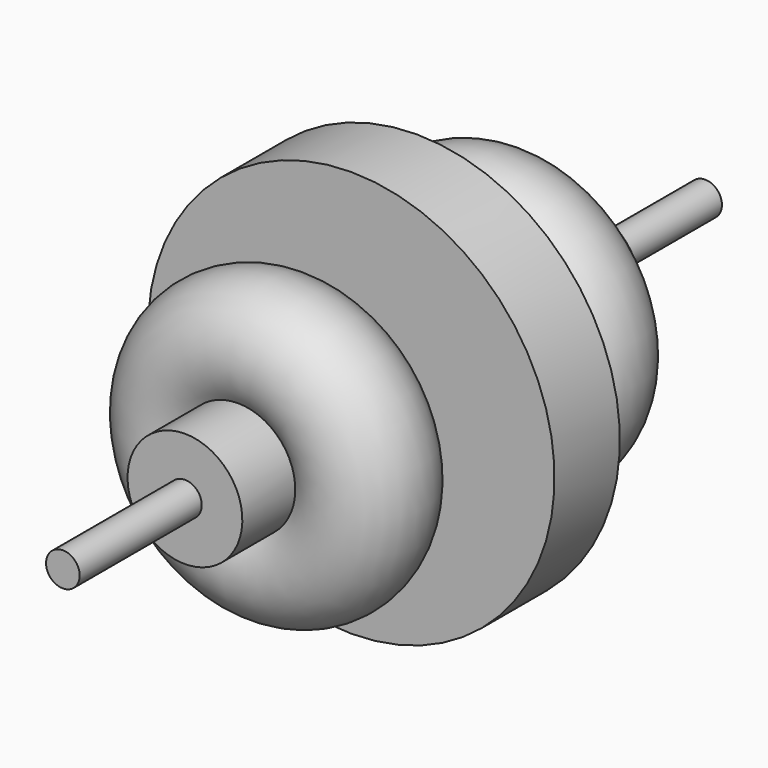
from build123d import *

# Parameters (mm, degrees)
F0_R     = 5.321878
F1_DEPTH = 127


with BuildPart() as f1:
    # F0 (on Front) → F1 (new body, symmetric)
    with BuildSketch(Plane.XZ):
        Circle(F0_R)
    extrude(amount=F1_DEPTH, both=True)

    # F2 (on Right) → F3 (revolve)
    with BuildSketch(Plane.YZ):
        with BuildLine():
            Line((-78.722104, 18.159812), (-78.722104, 0))
            Line((-78.722104, 0), (78.722104, 0))
            Line((78.722104, 0), (78.722104, 18.159812))
            Line((78.722104, 18.159812), (57.784908, 18.159812))
            ThreePointArc((57.784908, 18.159812), (42.616122, 47.424459), (27.447337, 18.159812))
            Line((27.447337, 18.159812), (12.919488, 18.159812))
            Line((12.919488, 18.159812), (12.919488, 64.307101))
            Line((12.919488, 64.307101), (0, 64.307101))
            Line((0, 64.307101), (-12.919488, 64.307101))
            Line((-12.919488, 64.307101), (-12.919488, 18.159812))
            Line((-12.919488, 18.159812), (-27.447337, 18.159812))
            ThreePointArc((-27.447337, 18.159812), (-42.616122, 47.424459), (-57.784908, 18.159812))
            Line((-57.784908, 18.159812), (-78.722104, 18.159812))
        make_face()
    revolve(axis=Axis((0, 0, 0), (0, -1, 0)))


solid = f1.part
